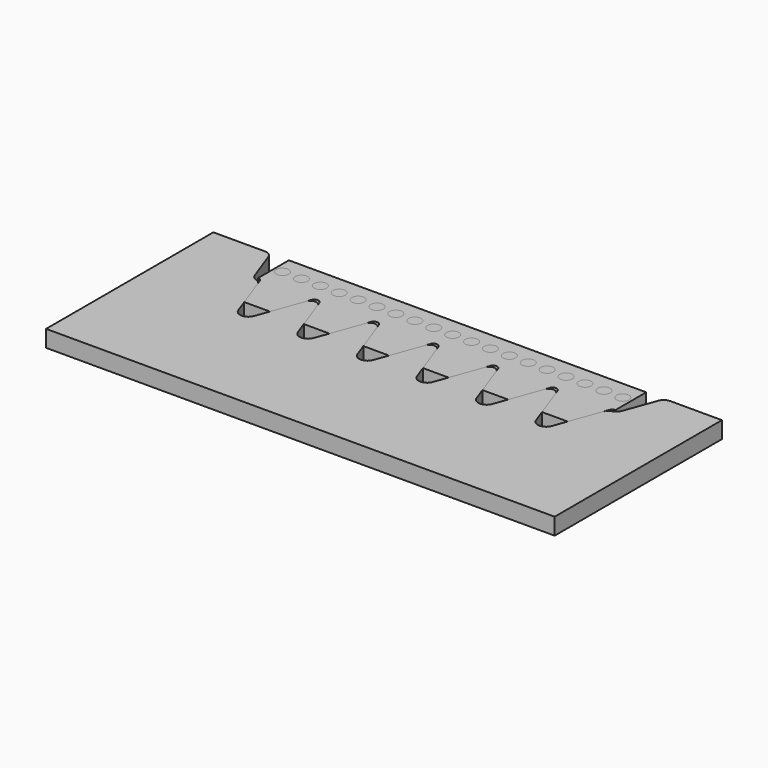
from build123d import *

# Parameters (mm, degrees)
F0_R     = 0.375
F1_DEPTH = 1
F2_DEPTH = 1
F3_DEPTH = 1


with BuildPart() as f1:
    # F0 (on Top) → F1 (new body)
    with BuildSketch(Plane.XY):
        with BuildLine():
            ThreePointArc((0, 70.19238), (0.143394, 70.147168), (0.234923, 70.027885))
            Line((0.234923, 70.027885), (0.356984, 69.692527))
            Line((0.356984, 69.692527), (1.012183, 67.89238))
            Line((1.012183, 67.89238), (2.547817, 67.89238))
            Line((2.547817, 67.89238), (3.231108, 69.769707))
            Line((3.231108, 69.769707), (3.325077, 70.027885))
            ThreePointArc((3.325077, 70.027885), (3.56, 70.19238), (3.794923, 70.027885))
            Line((3.794923, 70.027885), (3.888892, 69.769707))
            Line((3.888892, 69.769707), (4.572183, 67.89238))
            Line((4.572183, 67.89238), (6.107817, 67.89238))
            Line((6.107817, 67.89238), (6.791108, 69.769707))
            Line((6.791108, 69.769707), (6.885077, 70.027885))
            ThreePointArc((6.885077, 70.027885), (7.12, 70.19238), (7.354923, 70.027885))
            Line((7.354923, 70.027885), (7.448892, 69.769707))
            Line((7.448892, 69.769707), (8.132183, 67.89238))
            Line((8.132183, 67.89238), (9.667817, 67.89238))
            Line((9.667817, 67.89238), (10.351108, 69.769707))
            Line((10.351108, 69.769707), (10.445077, 70.027885))
            ThreePointArc((10.445077, 70.027885), (10.68, 70.19238), (10.914923, 70.027885))
            Line((10.914923, 70.027885), (11.008892, 69.769707))
            Line((11.008892, 69.769707), (11.692183, 67.89238))
            Line((11.692183, 67.89238), (13.227817, 67.89238))
            Line((13.227817, 67.89238), (13.911108, 69.769707))
            Line((13.911108, 69.769707), (14.005077, 70.027885))
            ThreePointArc((14.005077, 70.027885), (14.24, 70.19238), (14.474923, 70.027885))
            Line((14.474923, 70.027885), (14.568892, 69.769707))
            Line((14.568892, 69.769707), (15.252183, 67.89238))
            Line((15.252183, 67.89238), (16.787817, 67.89238))
            Line((16.787817, 67.89238), (17.471108, 69.769707))
            Line((17.471108, 69.769707), (17.565077, 70.027885))
            ThreePointArc((17.565077, 70.027885), (17.8, 70.19238), (18.034923, 70.027885))
            Line((18.034923, 70.027885), (18.128892, 69.769707))
            Line((18.128892, 69.769707), (18.812183, 67.89238))
            Line((18.812183, 67.89238), (20.347817, 67.89238))
            Line((20.347817, 67.89238), (21.003016, 69.692527))
            Line((21.003016, 69.692527), (21.125077, 70.027885))
            ThreePointArc((21.125077, 70.027885), (21.216606, 70.147168), (21.36, 70.19238))
            Line((21.36, 70.19238), (21.36, 72.49238))
            Line((21.36, 72.49238), (0, 72.49238))
            Line((0, 72.49238), (0, 70.19238))
        make_face()
        with Locations((0.5, 71.39238)):
            Circle(F0_R, mode=Mode.SUBTRACT)
        with Locations((1.63, 71.39238)):
            Circle(F0_R, mode=Mode.SUBTRACT)
        with Locations((2.76, 71.39238)):
            Circle(F0_R, mode=Mode.SUBTRACT)
        with Locations((3.89, 71.39238)):
            Circle(F0_R, mode=Mode.SUBTRACT)
        with Locations((5.02, 71.39238)):
            Circle(F0_R, mode=Mode.SUBTRACT)
        with Locations((6.15, 71.39238)):
            Circle(F0_R, mode=Mode.SUBTRACT)
        with Locations((7.28, 71.39238)):
            Circle(F0_R, mode=Mode.SUBTRACT)
        with Locations((8.41, 71.39238)):
            Circle(F0_R, mode=Mode.SUBTRACT)
        with Locations((9.54, 71.39238)):
            Circle(F0_R, mode=Mode.SUBTRACT)
        with Locations((10.67, 71.39238)):
            Circle(F0_R, mode=Mode.SUBTRACT)
        with Locations((11.8, 71.39238)):
            Circle(F0_R, mode=Mode.SUBTRACT)
        with Locations((12.93, 71.39238)):
            Circle(F0_R, mode=Mode.SUBTRACT)
        with Locations((14.06, 71.39238)):
            Circle(F0_R, mode=Mode.SUBTRACT)
        with Locations((15.19, 71.39238)):
            Circle(F0_R, mode=Mode.SUBTRACT)
        with Locations((16.32, 71.39238)):
            Circle(F0_R, mode=Mode.SUBTRACT)
        with Locations((17.45, 71.39238)):
            Circle(F0_R, mode=Mode.SUBTRACT)
        with Locations((18.58, 71.39238)):
            Circle(F0_R, mode=Mode.SUBTRACT)
        with Locations((19.71, 71.39238)):
            Circle(F0_R, mode=Mode.SUBTRACT)
        with Locations((20.84, 71.39238)):
            Circle(F0_R, mode=Mode.SUBTRACT)
    extrude(amount=F1_DEPTH)


with BuildPart() as f2:
    # F0 (on Top) → F2 (new body)
    with BuildSketch(Plane.XY):
        with BuildLine():
            Line((1.012183, 67.89238), (0.356984, 69.692527))
            ThreePointArc((0.356984, 69.692527), (0.230903, 69.884595), (0.032237, 70))
            ThreePointArc((0.032237, 70), (-0.166428, 70.115405), (-0.292509, 70.307473))
            Line((-0.292509, 70.307473), (-0.970782, 72.17101))
            ThreePointArc((-0.970782, 72.17101), (-1.15384, 72.409576), (-1.440628, 72.5))
            Line((-1.440628, 72.5), (-4.52, 72.5))
            Line((-4.52, 72.5), (-4.52, 60))
            Line((-4.52, 60), (25.88, 60))
            Line((25.88, 60), (25.88, 72.5))
            Line((25.88, 72.5), (22.800628, 72.5))
            ThreePointArc((22.800628, 72.5), (22.51384, 72.409576), (22.330782, 72.17101))
            Line((22.330782, 72.17101), (21.652509, 70.307473))
            ThreePointArc((21.652509, 70.307473), (21.526428, 70.115405), (21.327763, 70))
            ThreePointArc((21.327763, 70), (21.129097, 69.884595), (21.003016, 69.692527))
            Line((21.003016, 69.692527), (20.347817, 67.89238))
            Line((20.347817, 67.89238), (20.049846, 67.073714))
            ThreePointArc((20.049846, 67.073714), (19.58, 66.744724), (19.110154, 67.073714))
            Line((19.110154, 67.073714), (18.812183, 67.89238))
            Line((18.812183, 67.89238), (18.128892, 69.769707))
            ThreePointArc((18.128892, 69.769707), (17.8, 70), (17.471108, 69.769707))
            Line((17.471108, 69.769707), (16.787817, 67.89238))
            Line((16.787817, 67.89238), (16.489846, 67.073714))
            ThreePointArc((16.489846, 67.073714), (16.02, 66.744724), (15.550154, 67.073714))
            Line((15.550154, 67.073714), (15.252183, 67.89238))
            Line((15.252183, 67.89238), (14.568892, 69.769707))
            ThreePointArc((14.568892, 69.769707), (14.24, 70), (13.911108, 69.769707))
            Line((13.911108, 69.769707), (13.227817, 67.89238))
            Line((13.227817, 67.89238), (12.929846, 67.073714))
            ThreePointArc((12.929846, 67.073714), (12.46, 66.744724), (11.990154, 67.073714))
            Line((11.990154, 67.073714), (11.692183, 67.89238))
            Line((11.692183, 67.89238), (11.008892, 69.769707))
            ThreePointArc((11.008892, 69.769707), (10.68, 70), (10.351108, 69.769707))
            Line((10.351108, 69.769707), (9.667817, 67.89238))
            Line((9.667817, 67.89238), (9.369846, 67.073714))
            ThreePointArc((9.369846, 67.073714), (8.9, 66.744724), (8.430154, 67.073714))
            Line((8.430154, 67.073714), (8.132183, 67.89238))
            Line((8.132183, 67.89238), (7.448892, 69.769707))
            ThreePointArc((7.448892, 69.769707), (7.12, 70), (6.791108, 69.769707))
            Line((6.791108, 69.769707), (6.107817, 67.89238))
            Line((6.107817, 67.89238), (5.809846, 67.073714))
            ThreePointArc((5.809846, 67.073714), (5.34, 66.744724), (4.870154, 67.073714))
            Line((4.870154, 67.073714), (4.572183, 67.89238))
            Line((4.572183, 67.89238), (3.888892, 69.769707))
            ThreePointArc((3.888892, 69.769707), (3.56, 70), (3.231108, 69.769707))
            Line((3.231108, 69.769707), (2.547817, 67.89238))
            Line((2.547817, 67.89238), (2.249846, 67.073714))
            ThreePointArc((2.249846, 67.073714), (1.78, 66.744724), (1.310154, 67.073714))
            Line((1.310154, 67.073714), (1.012183, 67.89238))
        make_face()
    extrude(amount=F2_DEPTH)


with BuildPart() as f3:
    # F0 (on Top) → F3 (new body)
    with BuildSketch(Plane.XY):
        with Locations((0.5, 71.39238)):
            Circle(F0_R)
        with Locations((1.63, 71.39238)):
            Circle(F0_R)
        with Locations((2.76, 71.39238)):
            Circle(F0_R)
        with Locations((3.89, 71.39238)):
            Circle(F0_R)
        with Locations((5.02, 71.39238)):
            Circle(F0_R)
        with Locations((6.15, 71.39238)):
            Circle(F0_R)
        with Locations((7.28, 71.39238)):
            Circle(F0_R)
        with Locations((8.41, 71.39238)):
            Circle(F0_R)
        with Locations((9.54, 71.39238)):
            Circle(F0_R)
        with Locations((10.67, 71.39238)):
            Circle(F0_R)
        with Locations((11.8, 71.39238)):
            Circle(F0_R)
        with Locations((12.93, 71.39238)):
            Circle(F0_R)
        with Locations((14.06, 71.39238)):
            Circle(F0_R)
        with Locations((17.45, 71.39238)):
            Circle(F0_R)
        with Locations((18.58, 71.39238)):
            Circle(F0_R)
        with Locations((19.71, 71.39238)):
            Circle(F0_R)
        with Locations((20.84, 71.39238)):
            Circle(F0_R)
        with Locations((16.32, 71.39238)):
            Circle(F0_R)
        with Locations((15.19, 71.39238)):
            Circle(F0_R)
    extrude(amount=F3_DEPTH)


solid = Compound([f1.part, f2.part, f3.part])
